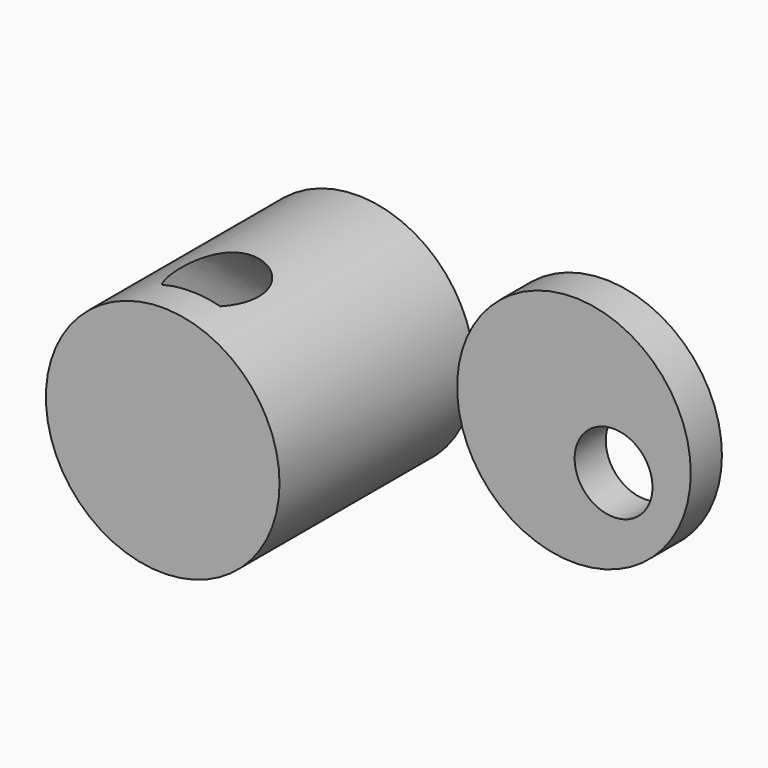
from build123d import *

# Parameters (mm, degrees)
F0_R     = 60
F1_DEPTH = 125
F2_R     = 20
F5_R     = 60
F6_DEPTH = 20
F7_R     = 20
F8_DEPTH = 30


with BuildPart() as f1:
    # F0 (on Front) → F1 (new body)
    with BuildSketch(Plane.XZ):
        Circle(F0_R)
    extrude(amount=F1_DEPTH)

    # F4: sweep along a path in F3
    with BuildLine(Plane.YZ) as f4_path:
        Line((0, -25.435504), (-106.843635, 58.895227))
    # F2 (on face) → F4 (sweep, cut)
    with BuildSketch(Plane(origin=(0, 0, 0), x_dir=(-1, 0, 0), z_dir=(0, 1, 0))):
        with Locations((0, -13.146971)):
            Circle(F2_R)
    sweep(path=f4_path.line, mode=Mode.SUBTRACT)


with BuildPart() as f6:
    # F5 (on Front) → F6 (new body)
    with BuildSketch(Plane.XZ):
        with Locations((127.190962, 3.342743)):
            Circle(F5_R)
    extrude(amount=F6_DEPTH)

    # F7 (on face) → F8 (cut)
    with BuildSketch(Plane(origin=(0, 0, 0), x_dir=(-1, 0, 0), z_dir=(0, 1, 0))):
        with Locations((-147.52914, -9.454308)):
            Circle(F7_R)
    extrude(amount=-F8_DEPTH, mode=Mode.SUBTRACT)


solid = Compound([f1.part, f6.part])
